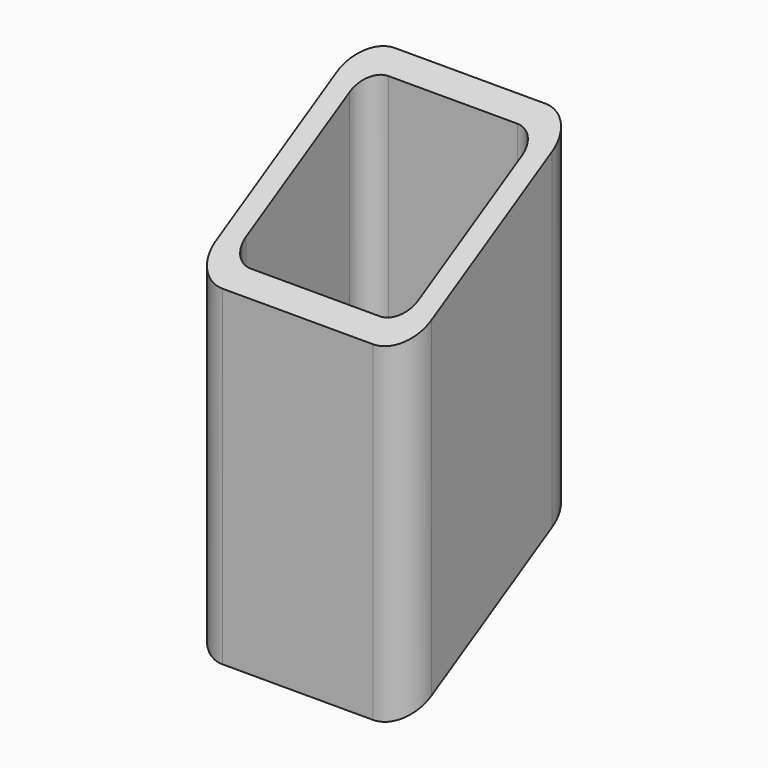
from build123d import *

# Parameters (mm, degrees)
F1_DEPTH = 225
F3_DEPTH = 100


with BuildPart() as f1:
    # F0 (on Top) → F1 (new body)
    with BuildSketch(Plane.XY):
        with BuildLine():
            Line((35, 50), (-35, 50))
            ThreePointArc((-35, 50), (-45.606602, 45.606602), (-50, 35))
            Line((-50, 35), (-50, -35))
            ThreePointArc((-50, -35), (-45.606602, -45.606602), (-35, -50))
            Line((-35, -50), (35, -50))
            ThreePointArc((35, -50), (45.606602, -45.606602), (50, -35))
            Line((50, -35), (50, 35))
            ThreePointArc((50, 35), (45.606602, 45.606602), (35, 50))
        make_face()
        with BuildLine():
            ThreePointArc((-40, 30), (-37.071068, 37.071068), (-30, 40))
            Line((-30, 40), (30, 40))
            ThreePointArc((30, 40), (37.071068, 37.071068), (40, 30))
            Line((40, 30), (40, -30))
            ThreePointArc((40, -30), (37.071068, -37.071068), (30, -40))
            Line((30, -40), (-30, -40))
            ThreePointArc((-30, -40), (-37.071068, -37.071068), (-40, -30))
            Line((-40, -30), (-40, 30))
        make_face(mode=Mode.SUBTRACT)
    extrude(amount=F1_DEPTH)

    # F2 (on face) → F3 (cut)
    with BuildSketch(Plane.YZ.offset(50)):
        Polygon((-50, 225), (-50, 167.264973), (50, 225), align=None)
        Polygon((50, 71.424828), (-50, 13.689801), (-50, 0), (50, 0), align=None)
    extrude(amount=-F3_DEPTH, mode=Mode.SUBTRACT)


solid = f1.part
